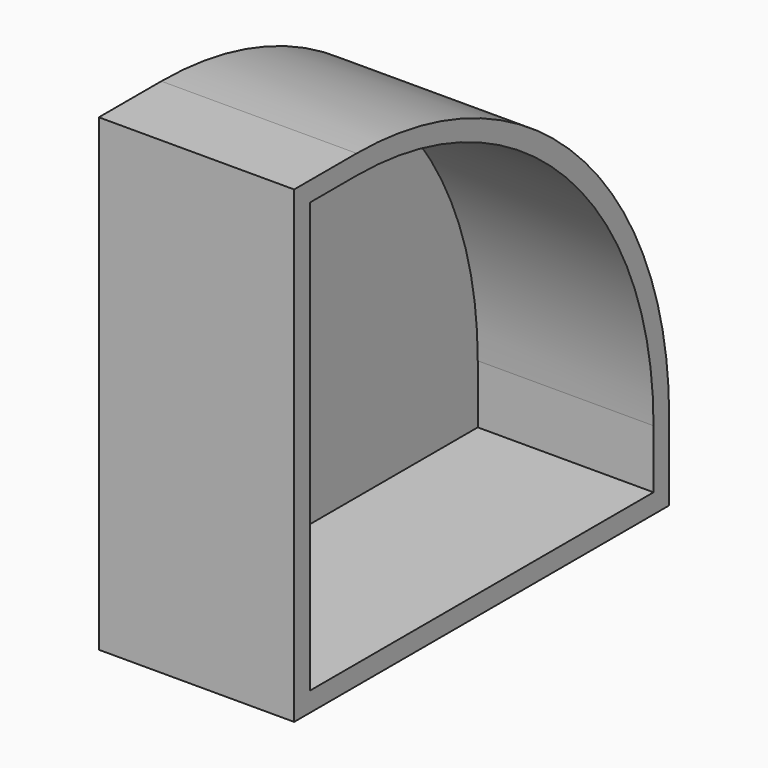
from build123d import *

# Parameters (mm, degrees)
F0_W     = 60
F0_H     = 60
F1_DEPTH = 25
F2_R     = 50
F3_T     = -2.5


with BuildPart() as f1:
    # F0 (on Right) → F1 (new body)
    with BuildSketch(Plane.YZ):
        with Locations((30, 4.027068)):
            Rectangle(F0_W, F0_H)
    extrude(amount=F1_DEPTH)

    # F2
    f2_edges = [f1.edges().sort_by_distance(p)[0] for p in [
        (12.5, 60, 34.027068),
    ]]
    fillet(f2_edges, radius=F2_R)

    # F3
    f3_openings = [f1.faces().sort_by_distance(p)[0] for p in [
        (25, 26.702054, 0.729122),
    ]]
    offset(amount=F3_T, openings=f3_openings)


solid = f1.part
